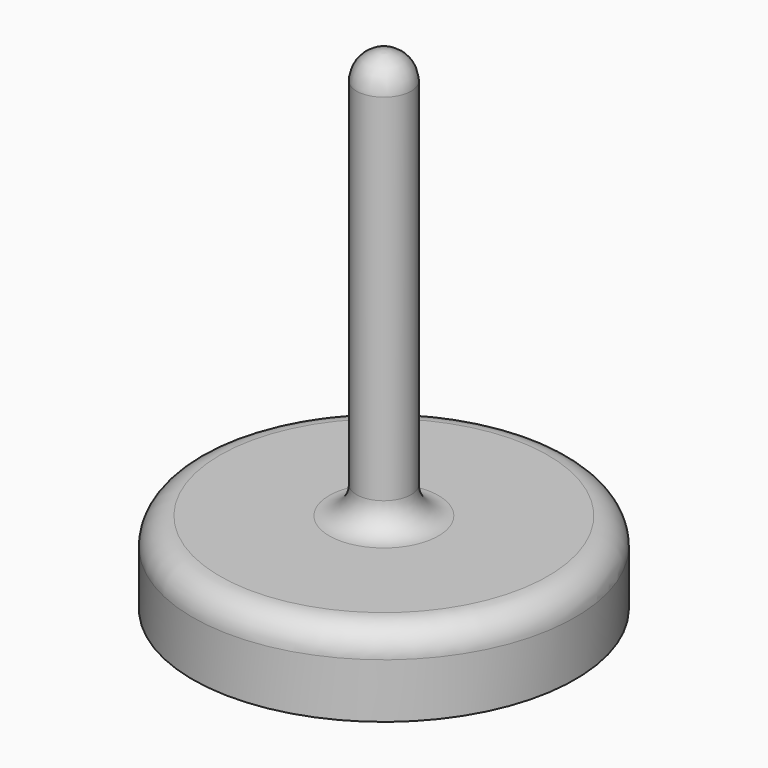
from build123d import *


with BuildPart() as f1:
    # F0 (on Front) → F1 (revolve)
    with BuildSketch(Plane.XZ):
        with BuildLine():
            Line((-127, 0), (0, 0))
            Line((0, 0), (0, 419.1))
            ThreePointArc((0, 419.1), (-17.960512, 411.660512), (-25.4, 393.7))
            Line((-25.4, 393.7), (-25.4, 63.5))
            ThreePointArc((-25.4, 63.5), (-32.839488, 45.539488), (-50.8, 38.1))
            Line((-50.8, 38.1), (-152.4, 38.1))
            ThreePointArc((-152.4, 38.1), (-170.360512, 30.660512), (-177.8, 12.7))
            Line((-177.8, 12.7), (-177.8, -38.1))
            Line((-177.8, -38.1), (-127, -38.1))
            Line((-127, -38.1), (-127, 0))
        make_face()
    revolve(axis=Axis((0, 0, 209.55), (0, 0, -1)))


solid = f1.part
